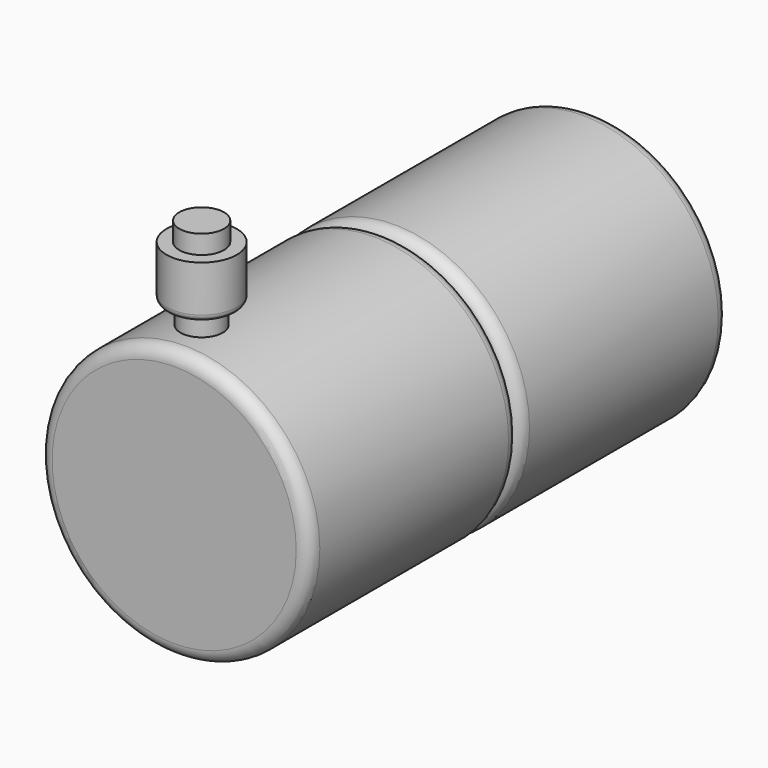
from build123d import *

# Parameters (mm, degrees)
F0_R     = 26.1956504321
F1_DEPTH = 50.8
F2_R     = 2.54
F6_R     = 1.27
F8_D     = 25.4
F8_DEPTH = 6.35
F8_TIP   = 7.6309298617


with BuildPart() as f1:
    # F0 (on Front) → F1 (new body)
    with BuildSketch(Plane.XZ):
        Circle(F0_R)
    extrude(amount=-F1_DEPTH)

    # F2
    f2_edges = [f1.edges().sort_by_distance(p)[0] for p in [
        (26.19565, 25.4, 0),
        (-26.19565, 0, 0),
        (-26.19565, 50.8, 0),
    ]]
    fillet(f2_edges, radius=F2_R)

    # F3: F1 across plane


with BuildPart() as f1_1:
    add(f1.part)
    add(f1.part.mirror(Plane.XZ))

    # F8
    with Locations(Plane(origin=(0, 50.8, 0), x_dir=(-1, 0, 0), z_dir=(0, 1, 0))):
        with Locations((0, 0)):
            Hole(F8_D / 2, depth=F8_DEPTH)
            with Locations((0, 0, -(F8_DEPTH + F8_TIP / 2))):  # 118° drill point
                Cone(0, F8_D / 2, F8_TIP, mode=Mode.SUBTRACT)


with BuildPart() as f5:
    # F4 (on Right) → F5 (revolve)
    with BuildSketch(Plane.YZ):
        Polygon((-39.8115739226, 45.846093446), (-44.1475957632, 45.846093446), (-44.1475957632, 28.0374214053), (-43.462857604, 28.0374214053), (-40.0438606739, 28.0374214053), (-40.0438606739, 31.9863036275), (-37.3338460922, 31.9863036275), (-37.3338460922, 42.2069318593), (-39.8115739226, 42.2069318593), align=None)
    revolve(axis=Axis((0, -44.1475957632, 36.9417574257), (0, 0, 1)))

    # F6
    f6_edges = [f5.edges().sort_by_distance(p)[0] for p in [
        (0, -50.961345, 31.986304),
    ]]
    fillet(f6_edges, radius=F6_R)


solid = Compound([f1_1.part, f5.part])
